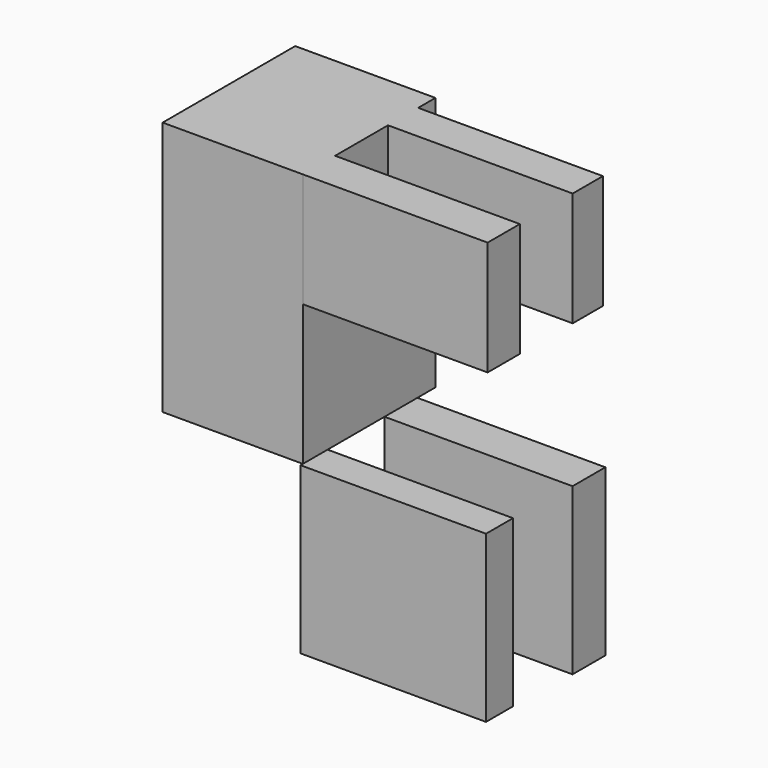
from build123d import *

# Parameters (mm, degrees)
F1_W     = 21.501394
F1_H     = 39.074652
F2_DEPTH = 25.4
F3_W     = 28.323952
F3_H     = 6.172791
F3_H_2   = 5.788837
F4_DEPTH = 17.526
F5_W     = 28.825473
F5_H     = 6.28651
F6_DEPTH = 25.4


with BuildPart() as f2:
    # F1 (on face) → F2 (new body)
    with BuildSketch(Plane.XZ):
        with Locations((32.458837, -5.478721)):
            Rectangle(F1_W, F1_H)
    extrude(amount=F2_DEPTH)

    # F3 (on face) → F4 (join)
    with BuildSketch(Plane.XY.offset(14.058605)):
        with Locations((57.37151, -22.313604)):
            Rectangle(F3_W, F3_H)
        with Locations((57.37151, -6.202325)):
            Rectangle(F3_W, F3_H_2)
    extrude(amount=-F4_DEPTH)


with BuildPart() as f6:
    # F5 (on face) → F6 (new body)
    with BuildSketch(Plane(origin=(0, 0, -25.016047), x_dir=(1, 0, 0), z_dir=(0, 0, -1))):
        Polygon((43.209534, 25.84812), (43.209534, 22.948604), (43.209534, 20.674419), (54.16698, 20.674419), (71.645655, 20.674419), (71.645655, 25.84812), align=None)
        with Locations((57.62227, 6.610119)):
            Rectangle(F5_W, F5_H)
    extrude(amount=F6_DEPTH)


solid = Compound([f2.part, f6.part])
